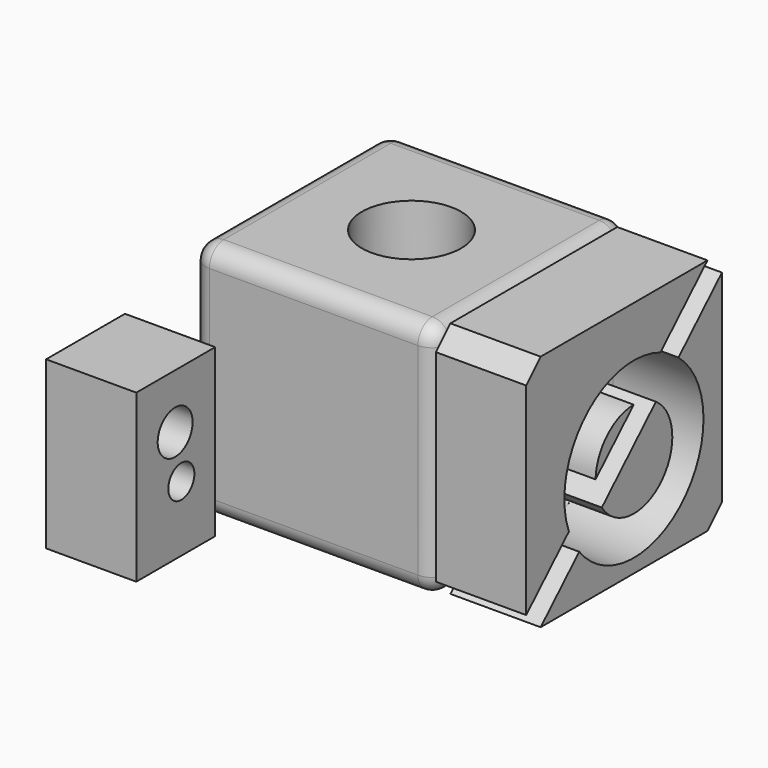
from build123d import *

# Parameters (mm, degrees)
F0_W          = 67.785792
F0_H          = 67.785792
F0_R          = 13.743659
F1_DEPTH      = 66
F2_R          = 5
F4_DEPTH      = 25
F5_R          = 24.093319
F5_R_2        = 13.299595
F6_DEPTH      = 25
F6_DEPTH_BACK = 92.785792
F8_W          = 27.31685
F8_H          = 46.120874
F8_R          = 4.515181
F8_R_2        = 6.044736
F9_DEPTH      = 25


with BuildPart() as f1:
    # F0 (on Top) → F1 (new body)
    with BuildSketch(Plane.XY):
        with Locations((33.892896, 33.892896)):
            Rectangle(F0_W, F0_H)
        with Locations((33.892896, 33.892896)):
            Circle(F0_R, mode=Mode.SUBTRACT)
    extrude(amount=F1_DEPTH)

    # F2
    f2_edges = [f1.edges().sort_by_distance(p)[0] for p in [
        (0, 33.892896, 66),
        (33.892896, 0, 66),
        (67.785792, 33.892896, 66),
        (33.892896, 67.785792, 66),
        (67.785792, 67.785792, 33),
        (67.785792, 0, 33),
        (0, 0, 33),
        (0, 67.785792, 33),
        (33.892896, 67.785792, 0),
        (0, 33.892896, 0),
        (33.892896, 0, 0),
        (67.785792, 33.892896, 0),
    ]]
    fillet(f2_edges, radius=F2_R)


with BuildPart() as f4:
    # F3 (on face) → F4 (new body)
    with BuildSketch(Plane.YZ.offset(67.785792)):
        Polygon((67.785792, 5), (67.785792, 61), (5, 0), (62.785792, 0), align=None)
        Polygon((62.785792, 66), (5, 66), (0, 61), (0, 5), align=None)
    extrude(amount=F4_DEPTH)


with BuildPart() as f6:
    # F5 (on face) → F6 (new body, two sides)
    with BuildSketch(Plane(origin=(0, 0, 0), x_dir=(0, -1, 0), z_dir=(-1, 0, 0))) as f6_sk:
        with Locations((-37.306011, 27.884785)):
            Circle(F5_R)
        with Locations((-37.306011, 27.884785)):
            Circle(F5_R_2, mode=Mode.SUBTRACT)
    extrude(amount=F6_DEPTH)
    extrude(f6_sk.sketch, amount=-F6_DEPTH_BACK)


with BuildPart() as f4_1:
    add(f4.part)

    # F7: cut F6
    add(f6.part, mode=Mode.SUBTRACT)


with BuildPart() as f1_1:
    add(f1.part)

    # F7: cut F6
    add(f6.part, mode=Mode.SUBTRACT)


with BuildPart() as f9:
    # F8 (on Right) → F9 (new body)
    with BuildSketch(Plane.YZ):
        with Locations((-36.640974, 34.602002)):
            Rectangle(F8_W, F8_H)
        with Locations((-34.706943, 29.680837)):
            Circle(F8_R, mode=Mode.SUBTRACT)
        with Locations((-36.846131, 42.55135)):
            Circle(F8_R_2, mode=Mode.SUBTRACT)
    extrude(amount=F9_DEPTH)


solid = Compound([f4_1.part, f1_1.part, f9.part])
